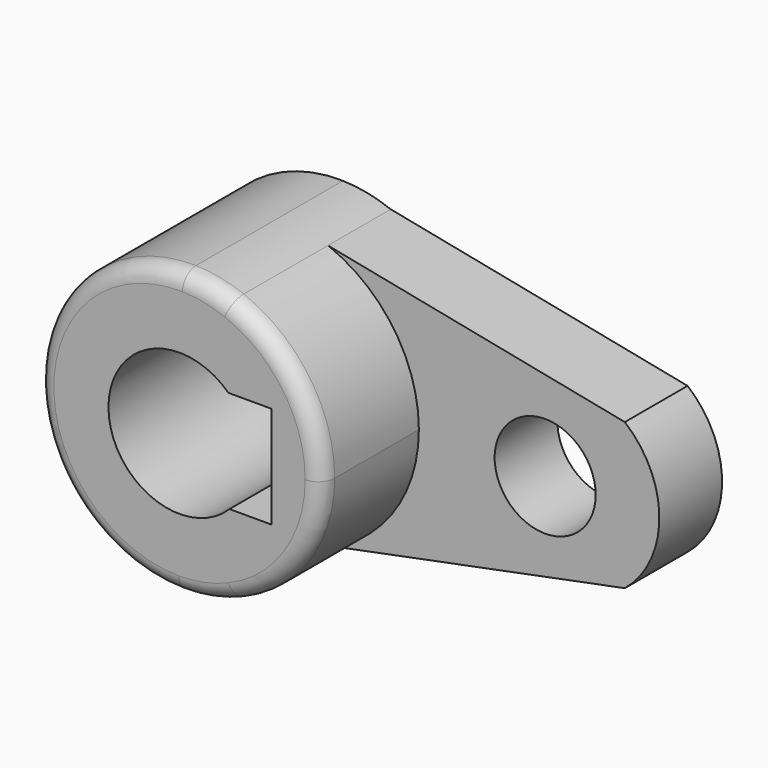
from build123d import *

# Parameters (mm, degrees)
F1_DEPTH = 40.2336
F0_R     = 10.16
F2_DEPTH = 15.7734
F3_R     = 3.302


with BuildPart() as f1:
    # F0 (on Front) → F1 (new body)
    with BuildSketch(Plane.XZ):
        with BuildLine():
            ThreePointArc((-46.7830288695, 26.6589681412), (-51.5056559342, 28.027918724), (-56.3930534915, 28.5669708617))
            Line((-56.3930534915, 28.5669708617), (-46.7830288695, 26.6589681412))
        make_face()
        with BuildLine():
            Line((-45.9697033865, -26.3306877774), (-57.2444129947, -28.5744701634))
            ThreePointArc((-57.2444129947, -28.5744701634), (-51.4930580564, -28.0254145609), (-45.9697033865, -26.3306877774))
        make_face()
        with BuildLine():
            Line((-46.7830288695, 26.6589681412), (-56.3930534915, 28.5669708617))
            ThreePointArc((-56.3930534915, 28.5669708617), (-85.6422307581, 0.4256962659), (-57.2444129947, -28.5744701634))
            Line((-57.2444129947, -28.5744701634), (-45.9697033865, -26.3306877774))
            ThreePointArc((-45.9697033865, -26.3306877774), (-33.2614425676, -15.8007621125), (-28.4954018406, 0))
            ThreePointArc((-28.4954018406, 0), (-33.506740117, 16.1642961856), (-46.7830288695, 26.6589681412))
        make_face()
        with BuildLine():
            ThreePointArc((-47.01702871, -10.1519626155), (-71.3571450466, -0.1470537858), (-47.2281253638, 10.3567490075))
            Line((-47.2281253638, 10.3567490075), (-38.5411018406, 10.3567490075))
            Line((-38.5411018406, 10.3567490075), (-38.5411018406, -10.1519626155))
            Line((-38.5411018406, -10.1519626155), (-47.01702871, -10.1519626155))
        make_face(mode=Mode.SUBTRACT)
    extrude(amount=F1_DEPTH)

    # F0 (on Front) → F2 (join)
    with BuildSketch(Plane.XZ):
        with BuildLine():
            Line((12.9274923096, 14.8038646076), (-46.7830288695, 26.6589681412))
            ThreePointArc((-46.7830288695, 26.6589681412), (-33.506740117, 16.1642961856), (-28.4954018406, 0))
            ThreePointArc((-28.4954018406, 0), (-33.2614425676, -15.8007621125), (-45.9697033865, -26.3306877774))
            Line((-45.9697033865, -26.3306877774), (12.9274923096, -14.6095441843))
            ThreePointArc((12.9274923096, -14.6095441843), (19.8690099187, 0.0971602116), (12.9274923096, 14.8038646076))
        make_face()
        with Locations((-3.0954018406, 0)):
            Circle(F0_R, mode=Mode.SUBTRACT)
    extrude(amount=F2_DEPTH)

    # F3
    f3_edges = [f1.edges().sort_by_distance(p)[0] for p in [
        (-57.74775, -40.2336, -28.566971),
    ]]
    fillet(f3_edges, radius=F3_R)


solid = f1.part
